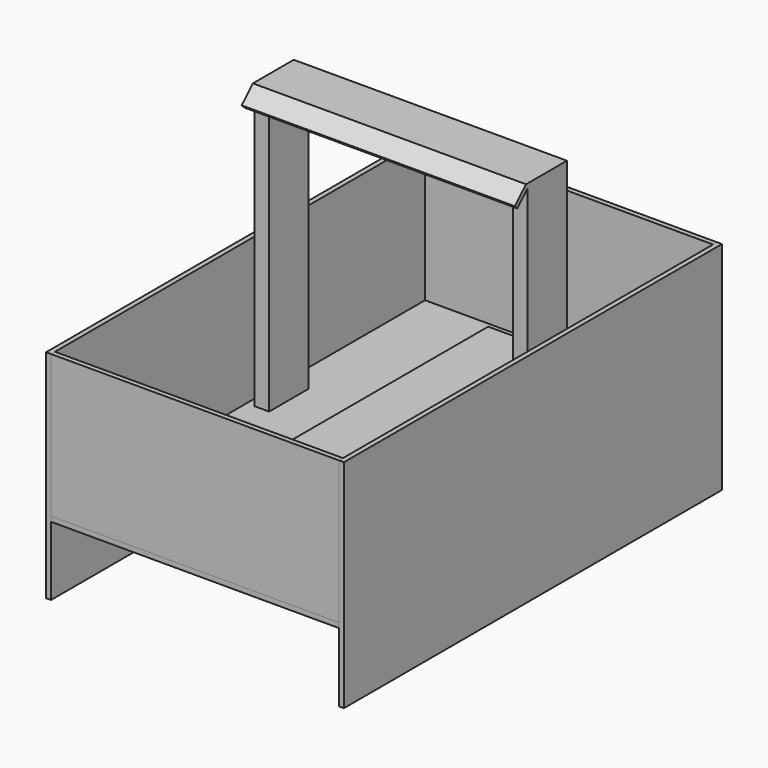
from build123d import *

# Parameters (mm, degrees)
F0_W      = 314.325
F0_H      = 304.8
F1_DEPTH  = 88.9
F2_W      = 203.2
F2_H      = 114.3
F2_H_2    = 304.8
F3_DEPTH  = 25.4
F4_W      = 19.05
F4_H      = 63.5
F5_DEPTH  = 457.2
F7_DEPTH  = 352.425
F8_W      = 6.35
F8_H      = 609.6
F9_DEPTH  = 279.4
F10_W     = 371.5708255768
F10_H     = 609.6
F11_DEPTH = 6.35
F12_W     = 371.5708255768
F12_H     = 184.15
F13_DEPTH = 6.35
F14_W     = 609.6
F14_H     = 88.9
F14_H_2   = 6.35
F14_H_3   = 184.15
F15_DEPTH = 6.35
F16_W     = 371.5708255768
F16_H     = 184.15
F17_DEPTH = 6.35


with BuildPart() as f1:
    # F0 (on Top) → F1 (new body)
    with BuildSketch(Plane.XY):
        with Locations((4.0858834982, 16.4359185861)):
            Rectangle(F0_W, F0_H)
    extrude(amount=F1_DEPTH)

    # F2 (on face) → F3 (join)
    with BuildSketch(Plane.XY.offset(88.9)):
        with Locations((27.8983834982, 225.9859185861)):
            Rectangle(F2_W, F2_H)
        with Locations((27.8983834982, 16.4359185861)):
            Rectangle(F2_W, F2_H_2)
        with Locations((27.8983834982, -193.1140814139)):
            Rectangle(F2_W, F2_H)
    extrude(amount=F3_DEPTH)

    # F4 (on Top) → F5 (join)
    with BuildSketch(Plane.XY):
        with Locations((-162.6016165018, 60.8859185861)):
            Rectangle(F4_W, F4_H)
        with Locations((170.7733834982, 60.8859185861)):
            Rectangle(F4_W, F4_H)
    extrude(amount=F5_DEPTH)

    # F6 (on face) → F7 (join)
    with BuildSketch(Plane(origin=(-172.1266165018, 0, 0), x_dir=(0, -1, 0), z_dir=(-1, 0, 0))):
        Polygon((-92.6359185861, 462.8342034762), (-92.6359185861, 457.2), (-29.1359185861, 457.2), (-12.6053467393, 441.1513507366), (-8.629405934, 445.2466844972), (-26.745057994, 462.8342034762), align=None)
    extrude(amount=-F7_DEPTH)


with BuildPart() as f9:
    # F8 (on Top) → F9 (new body)
    with BuildSketch(Plane.XY):
        with Locations((-185.3590703487, 18.511977005)):
            Rectangle(F8_W, F8_H)
    extrude(amount=F9_DEPTH)


with BuildPart() as f11:
    # F10 (on face) → F11 (new body)
    with BuildSketch(Plane.XY.offset(88.9)):
        with Locations((3.6013424397, 18.511977005)):
            Rectangle(F10_W, F10_H)
        Polygon((-73.7016165018, 168.8359185861), (-73.7016165018, -135.9640814139), (-153.0766165018, -135.9640814139), (-153.0766165018, 29.1359185861), (-153.0766165018, 92.6359185861), (-153.0766165018, 168.8359185861), align=None, mode=Mode.SUBTRACT)
        Polygon((-153.0766165018, -135.9640814139), (-73.7016165018, -135.9640814139), (-73.7016165018, 168.8359185861), (-153.0766165018, 168.8359185861), (-153.0766165018, 92.6359185861), (-153.0766165018, 29.1359185861), align=None)
    extrude(amount=F11_DEPTH)


with BuildPart() as f13:
    # F12 (on face) → F13 (new body)
    with BuildSketch(Plane.XZ.offset(286.288022995)):
        with Locations((3.6013424397, 187.325)):
            Rectangle(F12_W, F12_H)
    extrude(amount=-F13_DEPTH)


with BuildPart() as f15:
    # F14 (on face) → F15 (new body)
    with BuildSketch(Plane.YZ.offset(189.386755228)):
        with Locations((18.511977005, 44.45)):
            Rectangle(F14_W, F14_H)
        with Locations((18.511977005, 92.075)):
            Rectangle(F14_W, F14_H_2)
        with Locations((18.511977005, 187.325)):
            Rectangle(F14_W, F14_H_3)
    extrude(amount=F15_DEPTH)


with BuildPart() as f17:
    # F16 (on face) → F17 (new body)
    with BuildSketch(Plane(origin=(0, 323.311977005, 0), x_dir=(-1, 0, 0), z_dir=(0, 1, 0))):
        with Locations((-3.6013424397, 187.325)):
            Rectangle(F16_W, F16_H)
    extrude(amount=-F17_DEPTH)


solid = Compound([f1.part, f9.part, f11.part, f13.part, f15.part, f17.part])
